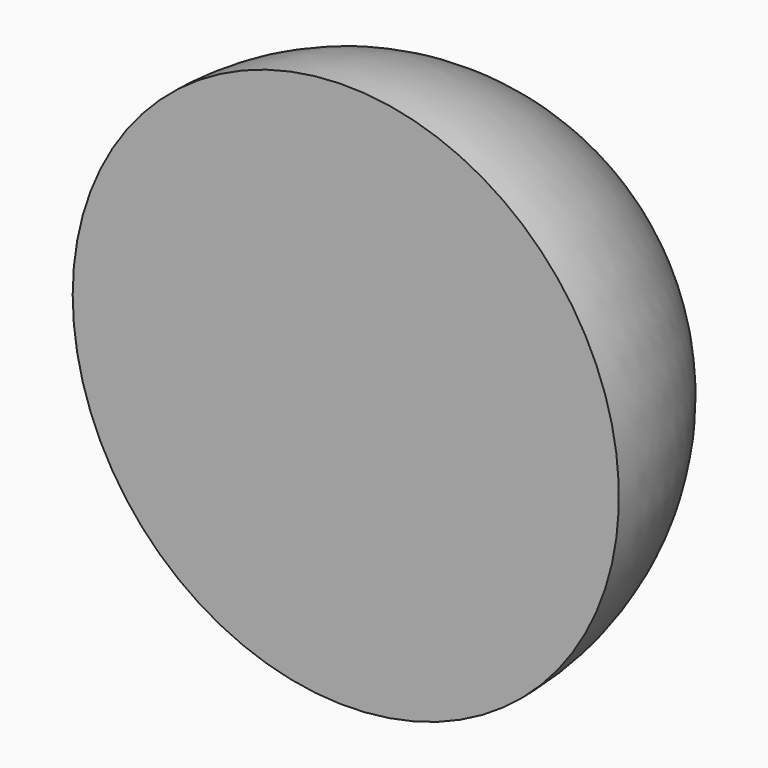
from build123d import *


with BuildPart() as f1:
    # F0 (on Top) → F1 (revolve)
    with BuildSketch(Plane.XY):
        with BuildLine():
            Line((0, 0), (0, 6.946377))
            ThreePointArc((0, 6.946377), (-4.91183, 4.91183), (-6.946377, 0))
            Line((-6.946377, 0), (0, 0))
        make_face()
    revolve(axis=Axis((0, 3.473188, 0), (0, -1, 0)))


solid = f1.part
